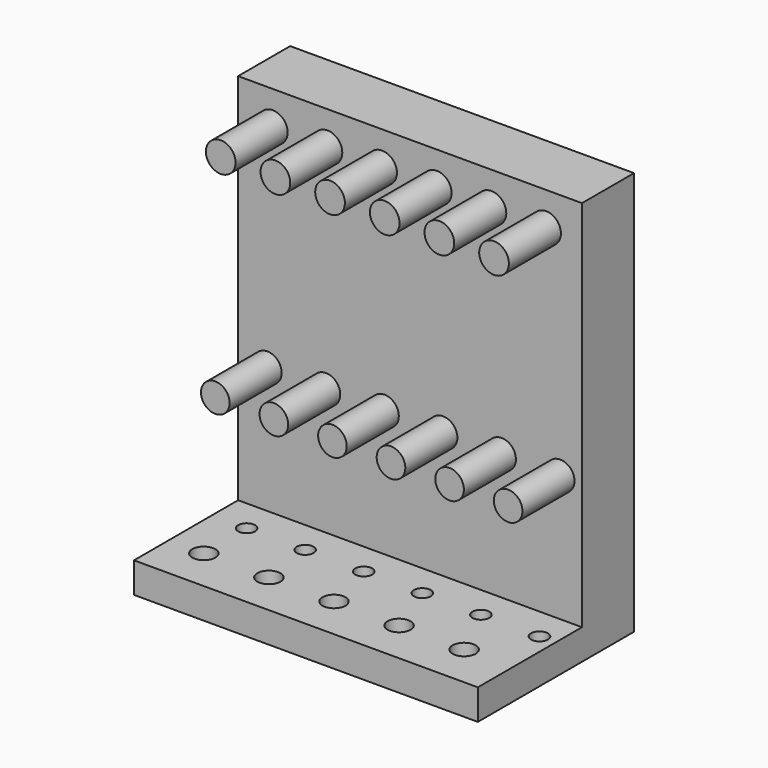
from build123d import *

# Parameters (mm, degrees)
F0_W     = 134.2057809234
F0_H     = 157.6057672501
F1_DEPTH = 25.4
F2_W     = 134.2057809234
F2_H     = 11.8888095021
F3_DEPTH = 50.8
F4_R     = 3.3067851736
F4_R_2   = 4.5017573087
F5_DEPTH = 25.4
F6_R     = 5.7930300282
F6_R_2   = 5.5883167401
F7_DEPTH = 25.4


with BuildPart() as f1:
    # F0 (on Front) → F1 (new body)
    with BuildSketch(Plane.XZ):
        with Locations((-1.6366653144, 9.6122771502)):
            Rectangle(F0_W, F0_H)
    extrude(amount=F1_DEPTH)

    # F2 (on face) → F3 (join)
    with BuildSketch(Plane.XZ.offset(25.4)):
        with Locations((-1.6366653144, -63.2462017238)):
            Rectangle(F2_W, F2_H)
    extrude(amount=F3_DEPTH)

    # F4 (on face) → F5 (cut)
    with BuildSketch(Plane.XY.offset(-57.3017969728)):
        with Locations((-55.1559180021, -38.2278487086)):
            Circle(F4_R)
        with Locations((-32.2959180021, -38.2278487086)):
            Circle(F4_R)
        with Locations((-9.4359180021, -38.2278487086)):
            Circle(F4_R)
        with Locations((13.4240819979, -38.2278487086)):
            Circle(F4_R)
        with Locations((36.2840819979, -38.2278487086)):
            Circle(F4_R)
        with Locations((59.1440819979, -38.2278487086)):
            Circle(F4_R)
        with Locations((-54.9669824541, -59.3341551721)):
            Circle(F4_R_2)
        with Locations((-29.5669824541, -59.3341551721)):
            Circle(F4_R_2)
        with Locations((-4.1669824541, -59.3341551721)):
            Circle(F4_R_2)
        with Locations((21.2330175459, -59.3341551721)):
            Circle(F4_R_2)
        with Locations((46.6330175459, -59.3341551721)):
            Circle(F4_R_2)
    extrude(amount=-F5_DEPTH, mode=Mode.SUBTRACT)

    # F6 (on face) → F7 (join)
    with BuildSketch(Plane.XZ.offset(25.4)):
        with Locations((-55.2074015141, 75.3232464194)):
            Circle(F6_R)
        with Locations((-33.8714015141, 75.3232464194)):
            Circle(F6_R)
        with Locations((-12.5354015141, 75.3232464194)):
            Circle(F6_R)
        with Locations((8.8005984859, 75.3232464194)):
            Circle(F6_R)
        with Locations((30.1365984859, 75.3232464194)):
            Circle(F6_R)
        with Locations((51.4725984859, 75.3232464194)):
            Circle(F6_R)
        with Locations((-57.3255419731, -8.0301519483)):
            Circle(F6_R_2)
        with Locations((-34.4655419731, -8.0301519483)):
            Circle(F6_R_2)
        with Locations((-11.6055419731, -8.0301519483)):
            Circle(F6_R_2)
        with Locations((11.2544580269, -8.0301519483)):
            Circle(F6_R_2)
        with Locations((34.1144580269, -8.0301519483)):
            Circle(F6_R_2)
        with Locations((56.9744580269, -8.0301519483)):
            Circle(F6_R_2)
    extrude(amount=F7_DEPTH)


solid = f1.part
